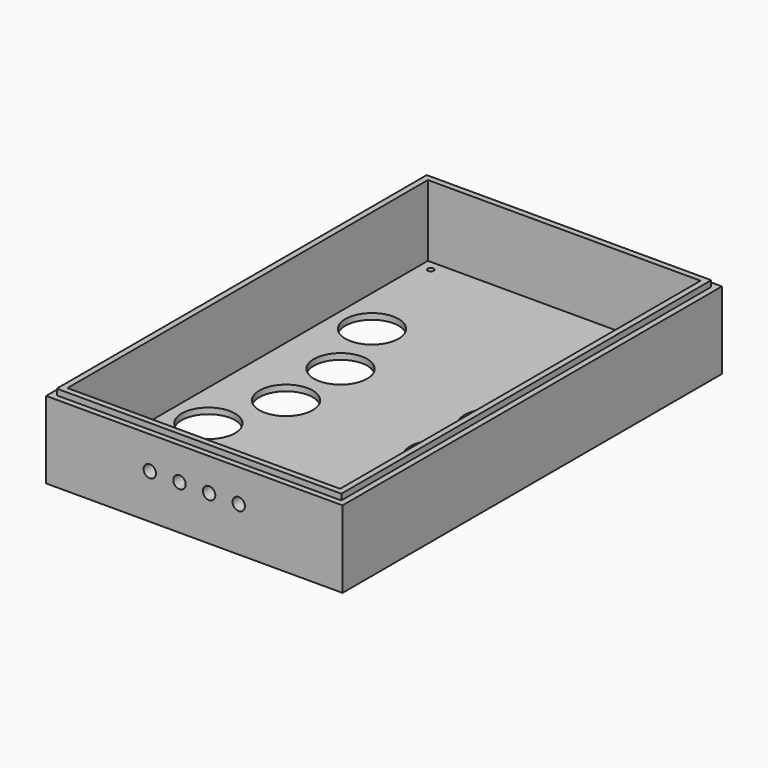
from build123d import *

# Parameters (mm, degrees)
SKETCH_W        = 100
SKETCH_H        = 160
PAD_DEPTH       = 26
SKETCH001_W     = 96
SKETCH001_H     = 156
PAD001_DEPTH    = 28
SKETCH005_W     = 92
SKETCH005_H     = 152
POCKET_DEPTH    = 24
SKETCH003_R     = 9
POCKET001_DEPTH = 28.001
SKETCH002_R     = 1
POCKET002_DEPTH = 28.001
SKETCH006_W     = 96
SKETCH006_H     = 156
POCKET003_DEPTH = 2
SKETCH007_R     = 2.1
POCKET004_DEPTH = 10


with BuildPart() as part:
    # Sketch → Pad (new body)
    with BuildSketch(Plane.XY):
        Rectangle(SKETCH_W, SKETCH_H)
    extrude(amount=PAD_DEPTH)

    # Sketch001 → Pad001 (join)
    with BuildSketch(Plane.XY):
        Rectangle(SKETCH001_W, SKETCH001_H)
    extrude(amount=PAD001_DEPTH)

    # Sketch005 → Pocket (cut)
    with BuildSketch(Plane.XY.offset(28)):
        Rectangle(SKETCH005_W, SKETCH005_H)
    extrude(amount=-POCKET_DEPTH, mode=Mode.SUBTRACT)

    # Sketch003 → Pocket001 (cut, through all)
    with BuildSketch(Plane.XY):
        with Locations((33.25, 36.5)):
            Circle(SKETCH003_R)
        with Locations((25.45, 13.5)):
            Circle(SKETCH003_R)
        with Locations((25.45, -9.5)):
            Circle(SKETCH003_R)
        with Locations((33.25, -32.5)):
            Circle(SKETCH003_R)
        with Locations((-33.25, 36.5)):
            Circle(SKETCH003_R)
        with Locations((-25.45, 13.5)):
            Circle(SKETCH003_R)
        with Locations((-25.45, -9.5)):
            Circle(SKETCH003_R)
        with Locations((-33.25, -32.5)):
            Circle(SKETCH003_R)
    extrude(amount=POCKET001_DEPTH, mode=Mode.SUBTRACT)

    # Sketch002 → Pocket002 (cut, through all)
    with BuildSketch(Plane.XY):
        with Locations((42.25, 72.5)):
            Circle(SKETCH002_R)
        with Locations((-42.25, 72.5)):
            Circle(SKETCH002_R)
        with Locations((42.25, -72.5)):
            Circle(SKETCH002_R)
        with Locations((-42.25, -72.5)):
            Circle(SKETCH002_R)
    extrude(amount=POCKET002_DEPTH, mode=Mode.SUBTRACT)

    # Sketch006 → Pocket003 (cut)
    with BuildSketch(Plane.XY):
        Rectangle(SKETCH006_W, SKETCH006_H)
    extrude(amount=POCKET003_DEPTH, mode=Mode.SUBTRACT)

    # Sketch007 → Pocket004 (cut)
    with BuildSketch(Plane.XZ.offset(80)):
        with Locations((-15, 15)):
            Circle(SKETCH007_R)
        with Locations((-5, 15)):
            Circle(SKETCH007_R)
        with Locations((5, 15)):
            Circle(SKETCH007_R)
        with Locations((15, 15)):
            Circle(SKETCH007_R)
    extrude(amount=-POCKET004_DEPTH, mode=Mode.SUBTRACT)


solid = part.part
